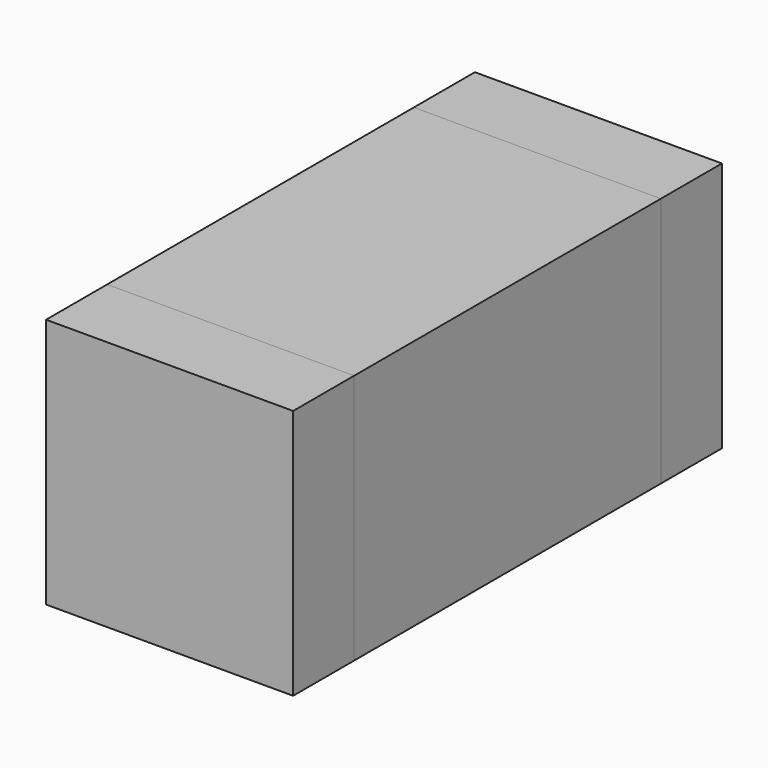
from build123d import *

# Parameters (mm, degrees)
F0_W     = 56.8431913853
F0_H     = 58.0880194902
F1_DEPTH = 64.043328166
F2_DEPTH = 63.593827188
F3_DEPTH = 25.4
F4_DEPTH = 25.4
F5_DEPTH = 25.4
F6_DEPTH = 25.4


with BuildPart() as f1:
    # F0 (on Front) → F1 (new body)
    with BuildSketch(Plane.XZ):
        Rectangle(F0_W, F0_H)
    extrude(amount=-F1_DEPTH)

    # F2 (add): a face of the model
    f2_faces = [f1.faces().sort_by_distance(p)[0] for p in [
        (0, 0, 0),
    ]]
    extrude(f2_faces, amount=F2_DEPTH)

    # F3 (add): a face of the model
    f3_faces = [f1.faces().sort_by_distance(p)[0] for p in [
        (0, 0.224750489, 29.0440097451),
    ]]
    extrude(f3_faces, amount=F3_DEPTH)

    # F4 (add): a face of the model
    f4_faces = [f1.faces().sort_by_distance(p)[0] for p in [
        (-28.4215956926, 0.224750489, 12.7),
    ]]
    extrude(f4_faces, amount=F4_DEPTH)


with BuildPart() as f5:
    # F5 (new): a face of the model
    f5_faces = [f1.part.faces().sort_by_distance(p)[0] for p in [
        (-12.7, -63.593827188, 12.7),
    ]]
    extrude(f5_faces, amount=F5_DEPTH)


with BuildPart() as f6:
    # F6 (new): a face of the model
    f6_faces = [f1.part.faces().sort_by_distance(p)[0] for p in [
        (-12.7, 64.043328166, 12.7),
    ]]
    extrude(f6_faces, amount=F6_DEPTH)


solid = Compound([f1.part, f5.part, f6.part])
